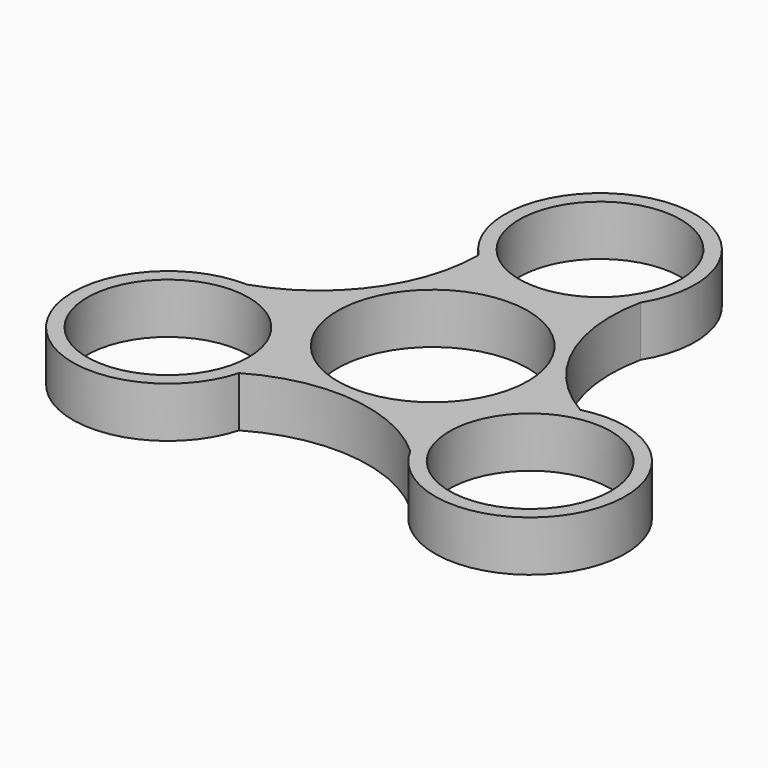
from build123d import *

# Parameters (mm, degrees)
F0_R     = 11.2
F0_R_2   = 13.2
F1_DEPTH = 7


with BuildPart() as f1:
    # F0 (on Top) → F1 (new body)
    with BuildSketch(Plane.XY):
        with BuildLine():
            ThreePointArc((21.835052, -1.71237), (12.657426, 8.42959), (11.211734, 22.030993))
            ThreePointArc((11.211734, 22.030993), (-1.43953, 42.119115), (-9.43457, 19.765895))
            ThreePointArc((-9.43457, 19.765895), (-13.628952, 6.746857), (-24.685267, -1.30585))
            ThreePointArc((-24.685267, -1.30585), (-35.756459, -22.306227), (-12.400482, -18.053525))
            ThreePointArc((-12.400482, -18.053525), (0.971526, -15.176447), (13.473532, -20.725143))
            ThreePointArc((13.473532, -20.725143), (37.195988, -19.812888), (21.835052, -1.71237))
        make_face()
        with Locations((-25.11287, -14.498922)):
            Circle(F0_R, mode=Mode.SUBTRACT)
        with Locations((25.11287, -14.498922)):
            Circle(F0_R, mode=Mode.SUBTRACT)
        Circle(F0_R_2, mode=Mode.SUBTRACT)
        with Locations((0, 28.997844)):
            Circle(F0_R, mode=Mode.SUBTRACT)
    extrude(amount=F1_DEPTH)


solid = f1.part
